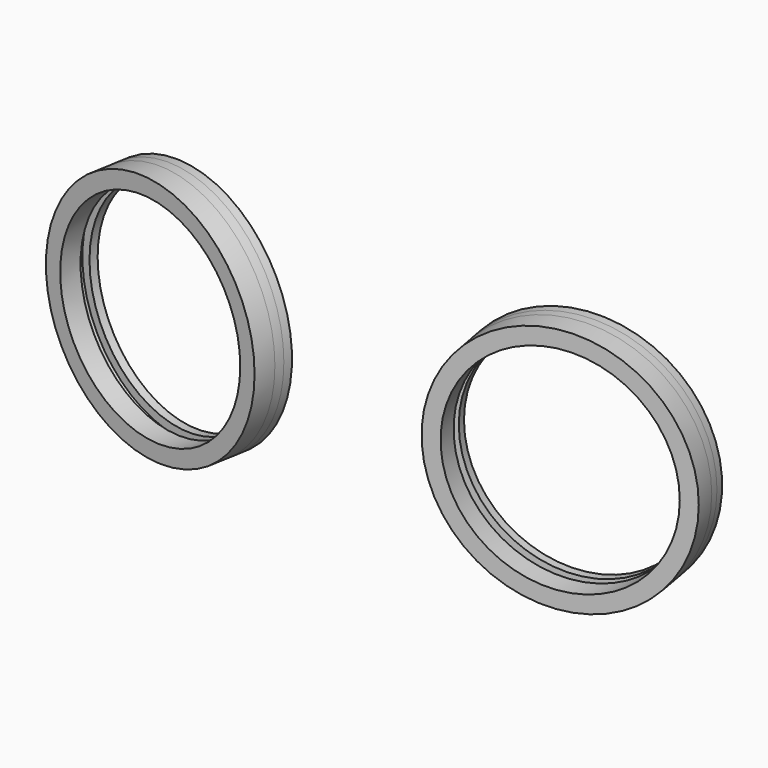
from build123d import *

# Parameters (mm, degrees)
F2_R      = 29.15
F2_R_2    = 25.15
F3_DEPTH  = 2
F4_R      = 29.15
F4_R_2    = 27.15
F5_DEPTH  = 2.2
F6_R      = 29.15
F6_R_2    = 27.15
F6_R_3    = 25.15
F7_DEPTH  = 5
F9_R      = 29.15
F9_R_2    = 25.15
F10_DEPTH = 2
F11_R     = 29.15
F11_R_2   = 27.15
F12_DEPTH = 2
F13_R     = 29.15
F13_R_2   = 27.15
F13_R_3   = 25.15
F14_DEPTH = 5


with BuildPart() as f3:
    # F2 (on line) → F3 (new body)
    with BuildSketch(Plane(origin=(0, 0, 0), x_dir=(-0.984807753, 0.1736481777, 0), z_dir=(0.1736481777, 0.984807753, 0))):
        with Locations((47.5, 0)):
            Circle(F2_R)
        with Locations((47.5, 0)):
            Circle(F2_R_2, mode=Mode.SUBTRACT)
    extrude(amount=-F3_DEPTH)

    # F4 (on face) → F5 (join)
    with BuildSketch(Plane(origin=(-0.3472963553, -1.969615506, 0), x_dir=(0.984807753, -0.1736481777, 0), z_dir=(-0.1736481777, -0.984807753, 0))):
        with Locations((-47.5, 0)):
            Circle(F4_R)
        with Locations((-47.5, 0)):
            Circle(F4_R_2, mode=Mode.SUBTRACT)
    extrude(amount=F5_DEPTH)

    # F6 (on face) → F7 (join)
    with BuildSketch(Plane(origin=(-0.7293223462, -4.1361925627, 0), x_dir=(0.984807753, -0.1736481777, 0), z_dir=(-0.1736481777, -0.984807753, 0))):
        with Locations((-47.5, 0)):
            Circle(F6_R)
        with Locations((-47.5, 0)):
            Circle(F6_R_2, mode=Mode.SUBTRACT)
        with Locations((-47.5, 0)):
            Circle(F6_R_2)
        with Locations((-47.5, 0)):
            Circle(F6_R_3, mode=Mode.SUBTRACT)
    extrude(amount=F7_DEPTH)


with BuildPart() as f10:
    # F9 (on line) → F10 (new body)
    with BuildSketch(Plane(origin=(0, 0, 0), x_dir=(-0.984807753, -0.1736481777, 0), z_dir=(-0.1736481777, 0.984807753, 0))):
        with Locations((-47.5, 0)):
            Circle(F9_R)
        with Locations((-47.5, 0)):
            Circle(F9_R_2, mode=Mode.SUBTRACT)
    extrude(amount=-F10_DEPTH)

    # F11 (on face) → F12 (join)
    with BuildSketch(Plane(origin=(0.3472963553, -1.969615506, 0), x_dir=(0.984807753, 0.1736481777, 0), z_dir=(0.1736481777, -0.984807753, 0))):
        with Locations((47.5, 0)):
            Circle(F11_R)
        with Locations((47.5, 0)):
            Circle(F11_R_2, mode=Mode.SUBTRACT)
    extrude(amount=F12_DEPTH)

    # F13 (on face) → F14 (join)
    with BuildSketch(Plane(origin=(0.6945927107, -3.939231012, 0), x_dir=(0.984807753, 0.1736481777, 0), z_dir=(0.1736481777, -0.984807753, 0))):
        with Locations((47.5, 0)):
            Circle(F13_R)
        with Locations((47.5, 0)):
            Circle(F13_R_2, mode=Mode.SUBTRACT)
        with Locations((47.5, 0)):
            Circle(F13_R_2)
        with Locations((47.5, 0)):
            Circle(F13_R_3, mode=Mode.SUBTRACT)
    extrude(amount=F14_DEPTH)


solid = Compound([f3.part, f10.part])
